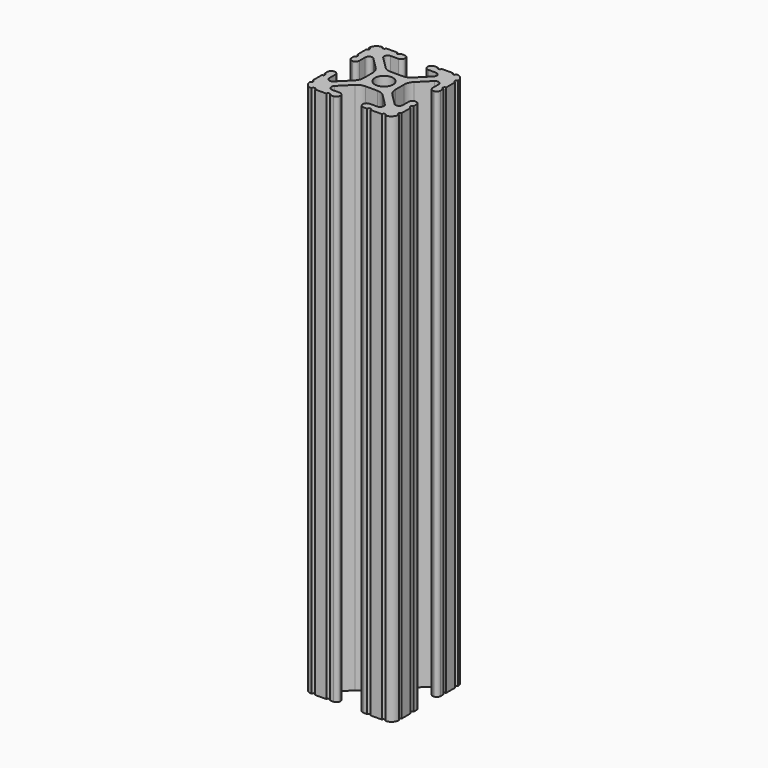
from build123d import *

# Parameters (mm, degrees)
SKETCH097_R   = 2.6035
EXTRUDE_DEPTH = 152.4


with BuildPart() as part:
    # Sketch097 → Extrude (new body)
    with BuildSketch(Plane.XY):
        with BuildLine():
            ThreePointArc((12.7, 6.333084), (12.192, 5.825084), (12.7, 5.317084))
            Line((12.7, 4.287469), (12.7, 5.317084))
            ThreePointArc((11.650988, 3.238457), (12.392751, 3.545706), (12.7, 4.287469))
            Line((11.539212, 3.238457), (11.650988, 3.238457))
            ThreePointArc((10.4902, 4.287469), (10.797449, 3.545706), (11.539212, 3.238457))
            Line((10.4902, 6.402089), (10.4902, 4.287469))
            ThreePointArc((10.4902, 6.402089), (9.856505, 7.351068), (8.737131, 7.129409))
            Line((5.441006, 3.840816), (8.737131, 7.129409))
            ThreePointArc((5.441006, 3.840816), (4.750878, 2.809883), (4.5085, 1.593186))
            Line((4.5085, -1.593186), (4.5085, 1.593186))
            ThreePointArc((4.5085, -1.593186), (4.750878, -2.809883), (5.441006, -3.840816))
            Line((8.737131, -7.129409), (5.441006, -3.840816))
            ThreePointArc((8.737131, -7.129409), (9.856505, -7.351068), (10.4902, -6.402089))
            Line((10.4902, -4.287469), (10.4902, -6.402089))
            ThreePointArc((11.539212, -3.238457), (10.797449, -3.545706), (10.4902, -4.287469))
            Line((11.650988, -3.238457), (11.539212, -3.238457))
            ThreePointArc((12.7, -4.287469), (12.392751, -3.545706), (11.650988, -3.238457))
            Line((12.7, -5.317084), (12.7, -4.287469))
            ThreePointArc((12.7, -5.317084), (12.192, -5.825084), (12.7, -6.333084))
            Line((12.7, -9.5504), (12.7, -6.333084))
            ThreePointArc((12.7, -9.5504), (12.192, -10.058323), (12.699847, -10.5664))
            ThreePointArc((10.566443, -12.699848), (12.082538, -12.082507), (12.699847, -10.5664))
            ThreePointArc((10.566443, -12.699848), (10.058367, -12.192), (9.550443, -12.7))
            Line((6.333127, -12.7), (9.550443, -12.7))
            ThreePointArc((6.333127, -12.7), (5.825127, -12.192), (5.317127, -12.7))
            Line((4.287512, -12.7), (5.317127, -12.7))
            ThreePointArc((3.2385, -11.650988), (3.545749, -12.392751), (4.287512, -12.7))
            Line((3.2385, -11.539212), (3.2385, -11.650988))
            ThreePointArc((4.287512, -10.4902), (3.545749, -10.797449), (3.2385, -11.539212))
            Line((6.416408, -10.4902), (4.287512, -10.4902))
            ThreePointArc((6.416408, -10.4902), (7.414731, -9.822813), (7.17965, -8.645193))
            Line((3.95227, -5.42369), (7.17965, -8.645193))
            ThreePointArc((3.95227, -5.42369), (2.922936, -4.736929), (1.709254, -4.4958))
            Line((-1.709254, -4.4958), (1.709254, -4.4958))
            ThreePointArc((-1.709254, -4.4958), (-2.922936, -4.736929), (-3.95227, -5.42369))
            Line((-7.17965, -8.645193), (-3.95227, -5.42369))
            ThreePointArc((-7.17965, -8.645193), (-7.414731, -9.822813), (-6.416408, -10.4902))
            Line((-4.287512, -10.4902), (-6.416408, -10.4902))
            ThreePointArc((-3.2385, -11.539212), (-3.545749, -10.797449), (-4.287512, -10.4902))
            Line((-3.2385, -11.650988), (-3.2385, -11.539212))
            ThreePointArc((-4.287512, -12.7), (-3.545749, -12.392751), (-3.2385, -11.650988))
            Line((-5.317127, -12.7), (-4.287512, -12.7))
            ThreePointArc((-5.317127, -12.7), (-5.825127, -12.192), (-6.333127, -12.7))
            Line((-9.550443, -12.7), (-6.333127, -12.7))
            ThreePointArc((-9.550443, -12.7), (-10.058367, -12.192), (-10.566443, -12.699848))
            ThreePointArc((-12.699847, -10.5664), (-12.082538, -12.082507), (-10.566443, -12.699848))
            ThreePointArc((-12.699847, -10.5664), (-12.192, -10.058323), (-12.7, -9.5504))
            Line((-12.7, -6.333084), (-12.7, -9.5504))
            ThreePointArc((-12.7, -6.333084), (-12.192, -5.825084), (-12.7, -5.317084))
            Line((-12.7, -4.287469), (-12.7, -5.317084))
            ThreePointArc((-11.650988, -3.238457), (-12.392751, -3.545706), (-12.7, -4.287469))
            Line((-11.539212, -3.238457), (-11.650988, -3.238457))
            ThreePointArc((-10.4902, -4.287469), (-10.797449, -3.545706), (-11.539212, -3.238457))
            Line((-10.4902, -6.402089), (-10.4902, -4.287469))
            ThreePointArc((-10.4902, -6.402089), (-9.856505, -7.351068), (-8.737131, -7.129409))
            Line((-5.441006, -3.840816), (-8.737131, -7.129409))
            ThreePointArc((-5.441006, -3.840816), (-4.750878, -2.809883), (-4.5085, -1.593186))
            Line((-4.5085, 1.593186), (-4.5085, -1.593186))
            ThreePointArc((-4.5085, 1.593186), (-4.750878, 2.809883), (-5.441006, 3.840816))
            Line((-8.737131, 7.129409), (-5.441006, 3.840816))
            ThreePointArc((-8.737131, 7.129409), (-9.856505, 7.351068), (-10.4902, 6.402089))
            Line((-10.4902, 4.287469), (-10.4902, 6.402089))
            ThreePointArc((-11.539212, 3.238457), (-10.797449, 3.545706), (-10.4902, 4.287469))
            Line((-11.650988, 3.238457), (-11.539212, 3.238457))
            ThreePointArc((-12.7, 4.287469), (-12.392751, 3.545706), (-11.650988, 3.238457))
            Line((-12.7, 5.317084), (-12.7, 4.287469))
            ThreePointArc((-12.7, 5.317084), (-12.192, 5.825084), (-12.7, 6.333084))
            Line((-12.7, 9.5504), (-12.7, 6.333084))
            ThreePointArc((-12.7, 9.5504), (-12.192, 10.058323), (-12.699847, 10.5664))
            ThreePointArc((-10.566443, 12.699848), (-12.082538, 12.082507), (-12.699847, 10.5664))
            ThreePointArc((-10.566443, 12.699848), (-10.058367, 12.192), (-9.550443, 12.7))
            Line((-6.333127, 12.7), (-9.550443, 12.7))
            ThreePointArc((-6.333127, 12.7), (-5.825127, 12.192), (-5.317127, 12.7))
            Line((-4.287512, 12.7), (-5.317127, 12.7))
            ThreePointArc((-3.2385, 11.650988), (-3.545749, 12.392751), (-4.287512, 12.7))
            Line((-3.2385, 11.539212), (-3.2385, 11.650988))
            ThreePointArc((-4.287512, 10.4902), (-3.545749, 10.797449), (-3.2385, 11.539212))
            Line((-6.476789, 10.4902), (-4.287512, 10.4902))
            ThreePointArc((-6.476789, 10.4902), (-7.432222, 9.851404), (-7.207036, 8.724371))
            Line((-3.898273, 5.423169), (-7.207036, 8.724371))
            ThreePointArc((-3.898273, 5.423169), (-2.86912, 4.736788), (-1.655778, 4.4958))
            Line((1.655778, 4.4958), (-1.655778, 4.4958))
            ThreePointArc((1.655778, 4.4958), (2.86912, 4.736788), (3.898273, 5.423169))
            Line((7.207036, 8.724371), (3.898273, 5.423169))
            ThreePointArc((7.207036, 8.724371), (7.432222, 9.851404), (6.476789, 10.4902))
            Line((4.287512, 10.4902), (6.476789, 10.4902))
            ThreePointArc((3.2385, 11.539212), (3.545749, 10.797449), (4.287512, 10.4902))
            Line((3.2385, 11.650988), (3.2385, 11.539212))
            ThreePointArc((4.287512, 12.7), (3.545749, 12.392751), (3.2385, 11.650988))
            Line((5.317127, 12.7), (4.287512, 12.7))
            ThreePointArc((5.317127, 12.7), (5.825127, 12.192), (6.333127, 12.7))
            Line((9.550443, 12.7), (6.333127, 12.7))
            ThreePointArc((9.550443, 12.7), (10.058367, 12.192), (10.566443, 12.699848))
            ThreePointArc((12.699847, 10.5664), (12.082538, 12.082507), (10.566443, 12.699848))
            ThreePointArc((12.699847, 10.5664), (12.192, 10.058323), (12.7, 9.5504))
            Line((12.7, 6.333084), (12.7, 9.5504))
        make_face()
        Circle(SKETCH097_R, mode=Mode.SUBTRACT)
    extrude(amount=EXTRUDE_DEPTH)


solid = part.part
